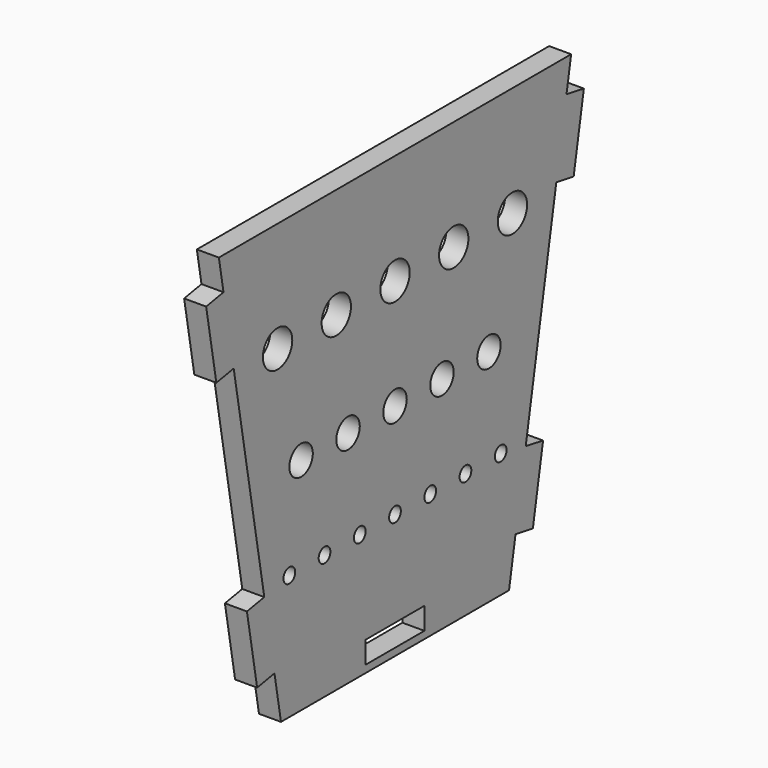
from build123d import *

# Parameters (mm, degrees)
F0_W     = 10
F0_H     = 3
F0_R     = 1
F0_R_2   = 2
F0_R_3   = 2.5
F1_DEPTH = 3


with BuildPart() as f1:
    # F0 (on Right) → F1 (new body)
    with BuildSketch(Plane.YZ):
        Polygon((-20.527813, 6.280557), (-19.420381, 0), (19.420381, 0), (20.527813, 6.280557), (23.482236, 5.759612), (25.218718, 15.60769), (22.264295, 16.128634), (27.47374, 45.672867), (30.428163, 45.151922), (32.164645, 55), (29.210222, 55.520945), (30, 60), (-30, 60), (-29.210222, 55.520945), (-32.164645, 55), (-30.428163, 45.151922), (-27.47374, 45.672867), (-22.264295, 16.128634), (-25.218718, 15.60769), (-23.482236, 5.759612), align=None)
        with Locations((0, 2.5)):
            Rectangle(F0_W, F0_H, mode=Mode.SUBTRACT)
        with Locations((-18, 17)):
            Circle(F0_R, mode=Mode.SUBTRACT)
        with Locations((-12, 17)):
            Circle(F0_R, mode=Mode.SUBTRACT)
        with Locations((-6, 17)):
            Circle(F0_R, mode=Mode.SUBTRACT)
        with Locations((0, 17)):
            Circle(F0_R, mode=Mode.SUBTRACT)
        with Locations((6, 17)):
            Circle(F0_R, mode=Mode.SUBTRACT)
        with Locations((12, 17)):
            Circle(F0_R, mode=Mode.SUBTRACT)
        with Locations((18, 17)):
            Circle(F0_R, mode=Mode.SUBTRACT)
        with Locations((-16, 30)):
            Circle(F0_R_2, mode=Mode.SUBTRACT)
        with Locations((-8, 30)):
            Circle(F0_R_2, mode=Mode.SUBTRACT)
        with Locations((0, 30)):
            Circle(F0_R_2, mode=Mode.SUBTRACT)
        with Locations((-20, 45)):
            Circle(F0_R_3, mode=Mode.SUBTRACT)
        with Locations((-10, 45)):
            Circle(F0_R_3, mode=Mode.SUBTRACT)
        with Locations((0, 45)):
            Circle(F0_R_3, mode=Mode.SUBTRACT)
        with Locations((8, 30)):
            Circle(F0_R_2, mode=Mode.SUBTRACT)
        with Locations((16, 30)):
            Circle(F0_R_2, mode=Mode.SUBTRACT)
        with Locations((10, 45)):
            Circle(F0_R_3, mode=Mode.SUBTRACT)
        with Locations((20, 45)):
            Circle(F0_R_3, mode=Mode.SUBTRACT)
    extrude(amount=F1_DEPTH)


solid = f1.part
